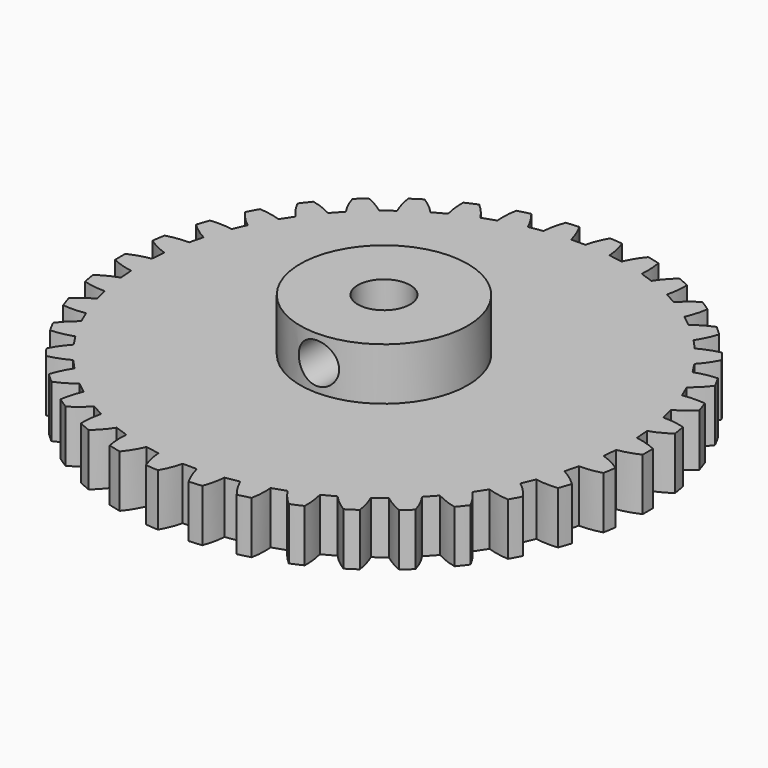
from build123d import *

# Parameters (mm, degrees)
SKETCH004_R        = 1.925
PAD002_DEPTH       = 10
SKETCH_R           = 25.2012
PAD_DEPTH          = 5
POCKET_DEPTH       = 147.910816
POLARPATTERN_COUNT = 38
SKETCH002_R        = 8
PAD001_DEPTH       = 5
SKETCH003_R        = 2.5
POCKET001_DEPTH    = 10.001


with BuildPart() as pad002:
    # Sketch004 → Pad002 (new body)
    with BuildSketch(Plane.XZ):
        with Locations((0, 7.5)):
            Circle(SKETCH004_R)
    extrude(amount=PAD002_DEPTH)


with BuildPart() as cut:
    # Sketch → Pad (new body)
    with BuildSketch(Plane.XY):
        Circle(SKETCH_R)
    extrude(amount=PAD_DEPTH)

    # Sketch001 → Pocket (cut, through all)
    with BuildSketch(Plane.XY.offset(5)):
        with BuildLine():
            ThreePointArc((-0.673495, 23.186), (-1.002835, 24.2061), (-1.47491, 25.1685))
            ThreePointArc((1.47491, 25.1685), (0, 26.756546), (-1.47491, 25.1685))
            ThreePointArc((1.47491, 25.1685), (1.002835, 24.2061), (0.673495, 23.186))
            Line((-0.673495, 23.186), (0.673495, 23.186))
        make_face()
    pocket = extrude(amount=-POCKET_DEPTH, mode=Mode.SUBTRACT)

    # PolarPattern: Pocket ×38 about axis
    polarpattern_axis = Axis((0, 0, 5), (0, 0, 1))
    for i in range(1, POLARPATTERN_COUNT):
        add(pocket.rotate(polarpattern_axis, i * 360 / POLARPATTERN_COUNT), mode=Mode.SUBTRACT)

    # Sketch002 → Pad001 (new body)
    with BuildSketch(Plane.XY.offset(5)):
        Circle(SKETCH002_R)
    extrude(amount=PAD001_DEPTH)

    # Sketch003 → Pocket001 (cut, through all)
    with BuildSketch(Plane.XY.offset(10)):
        Circle(SKETCH003_R)
    extrude(amount=-POCKET001_DEPTH, mode=Mode.SUBTRACT)

    # Cut: cut Pad002
    add(pad002.part, mode=Mode.SUBTRACT)


solid = cut.part
